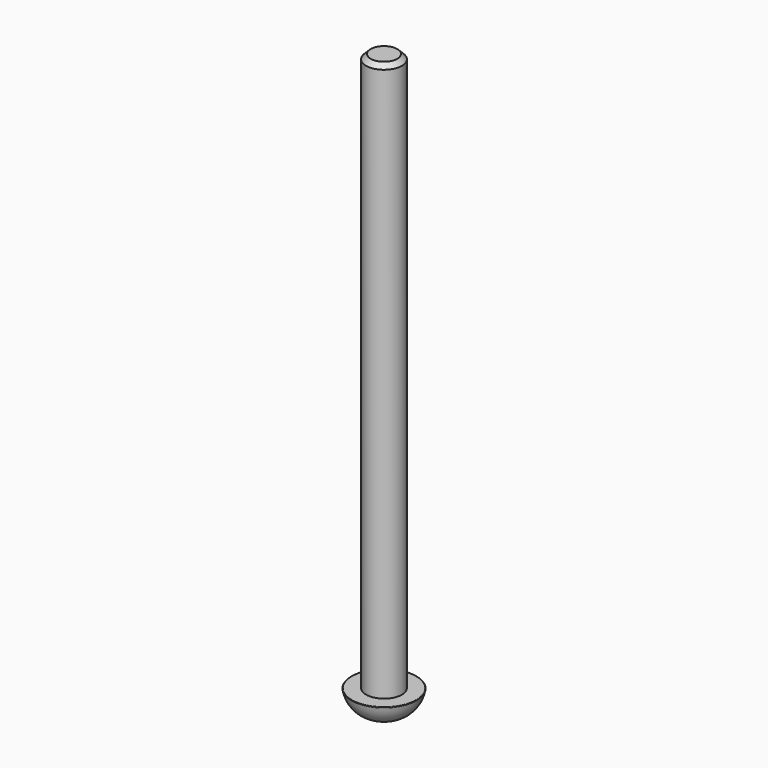
from build123d import *

# Parameters (mm, degrees)
F0_R     = 97.79
F1_DEPTH = 3048
F4_R     = 2.54
F5_SIZE  = 25.4


with BuildPart() as f1:
    # F0 (on Top) → F1 (new body)
    with BuildSketch(Plane.XY):
        Circle(F0_R)
    extrude(amount=F1_DEPTH)

    # F2 (on Front) → F3 (revolve)
    with BuildSketch(Plane.XZ):
        with BuildLine():
            Line((177.8, 0), (0, 0))
            Line((0, 0), (0, -127))
            ThreePointArc((0, -127), (115.699408, -101.019171), (177.8, 0))
        make_face()
    revolve(axis=Axis((0, 0, 0), (0, 0, 1)))

    # F4
    f4_edges = [f1.edges().sort_by_distance(p)[0] for p in [
        (-177.8, 0, 0),
    ]]
    fillet(f4_edges, radius=F4_R)

    # F5
    f5_edges = [f1.edges().sort_by_distance(p)[0] for p in [
        (-97.79, 0, 3048),
    ]]
    chamfer(f5_edges, length=F5_SIZE)


solid = f1.part
